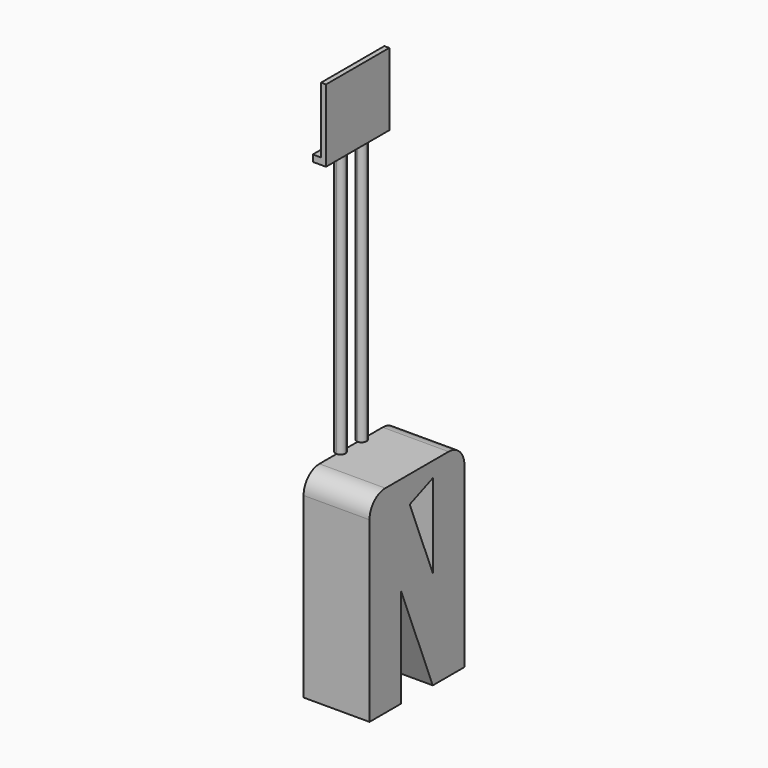
from build123d import *

# Parameters (mm, degrees)
F1_DEPTH = 10
F2_R     = 3
F3_R     = 3
F5_DEPTH = 40
F6_W     = 2
F6_H     = 12
F7_DEPTH = 1
F8_W     = 0.75
F8_H     = 12
F9_DEPTH = 10


with BuildPart() as f1:
    # F0 (on Right) → F1 (new body)
    with BuildSketch(Plane.YZ):
        Polygon((-2.054113, 13.772698), (-8.054113, 13.772698), (-6.429656, 9.711557), (-2.054113, 11.461774), align=None)
        Polygon((3.945887, 13.772698), (-2.054113, 13.772698), (-2.054113, 11.461774), (-2.054113, -1.227302), (3.945887, -16.227302), (3.945887, 12.582935), align=None)
        Polygon((-2.054113, -1.227302), (-2.054113, -16.227302), (3.945887, -16.227302), align=None)
        Polygon((-6.429656, 9.711557), (-8.054113, 13.772698), (-8.054113, -1.227302), (-2.054113, -16.227302), (-2.054113, -1.227302), align=None)
        Polygon((-8.054113, 13.772698), (-14.054113, 13.772698), (-8.054113, -1.227302), align=None)
        Polygon((-8.054113, -1.227302), (-14.054113, 13.772698), (-14.054113, -16.227302), (-8.054113, -16.227302), align=None)
    extrude(amount=F1_DEPTH)

    # F2
    f2_edges = [f1.edges().sort_by_distance(p)[0] for p in [
        (5, -14.054113, 13.772698),
    ]]
    fillet(f2_edges, radius=F2_R)

    # F3
    f3_edges = [f1.edges().sort_by_distance(p)[0] for p in [
        (5, 3.945887, 13.772698),
    ]]
    fillet(f3_edges, radius=F3_R)

    # F4 (on face) → F5 (join)
    with BuildSketch(Plane.XY.offset(13.772698)):
        with BuildLine():
            ThreePointArc((0, -3.804113), (0.53033, -3.584443), (0.75, -3.054113))
            ThreePointArc((0.75, -3.054113), (0.53033, -2.523782), (0, -2.304113))
            Line((0, -2.304113), (0, -3.804113))
        make_face()
        with BuildLine():
            Line((0, -3.804113), (0, -2.304113))
            ThreePointArc((0, -2.304113), (-0.75, -3.054113), (0, -3.804113))
        make_face()
        with BuildLine():
            ThreePointArc((0.75, -7.054113), (0.53033, -6.523782), (0, -6.304113))
            Line((0, -6.304113), (0, -7.804113))
            ThreePointArc((0, -7.804113), (0.53033, -7.584443), (0.75, -7.054113))
        make_face()
        with BuildLine():
            Line((0, -7.804113), (0, -6.304113))
            ThreePointArc((0, -6.304113), (-0.75, -7.054113), (0, -7.804113))
        make_face()
    extrude(amount=F5_DEPTH)

    # F6 (on face) → F7 (join)
    with BuildSketch(Plane.XY.offset(53.772698)):
        with Locations((0, -5.054113)):
            Rectangle(F6_W, F6_H)
    extrude(amount=F7_DEPTH)

    # F8 (on face) → F9 (join)
    with BuildSketch(Plane.XY.offset(54.772698)):
        with Locations((0.625, -5.054113)):
            Rectangle(F8_W, F8_H)
    extrude(amount=F9_DEPTH)


solid = f1.part
